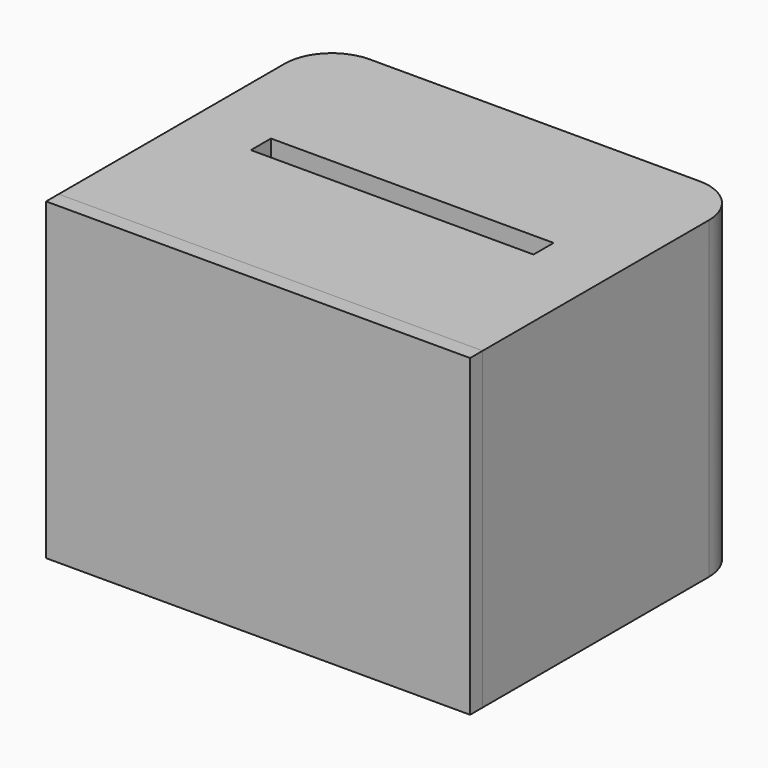
from build123d import *

# Parameters (mm, degrees)
F0_W     = 135
F0_H     = 100
F1_DEPTH = 105
F2_W     = 90
F2_H     = 8
F3_DEPTH = 45
F4_W     = 85
F4_H     = 50
F5_DEPTH = 60
F6_W     = 135
F6_H     = 100
F7_DEPTH = 5
F8_R     = 15
F9_R     = 15


with BuildPart() as f1:
    # F0 (on Front) → F1 (new body)
    with BuildSketch(Plane.XZ):
        Rectangle(F0_W, F0_H)
    extrude(amount=F1_DEPTH)

    # F2 (on face) → F3 (cut)
    with BuildSketch(Plane.XY.offset(50)):
        with Locations((0, -52.623879)):
            Rectangle(F2_W, F2_H)
    extrude(amount=-F3_DEPTH, mode=Mode.SUBTRACT)

    # F4 (on face) → F5 (cut)
    with BuildSketch(Plane.XZ.offset(105)):
        with Locations((-5.58562, 0)):
            Rectangle(F4_W, F4_H)
    extrude(amount=-F5_DEPTH, mode=Mode.SUBTRACT)

    # F8
    f8_edges = [f1.edges().sort_by_distance(p)[0] for p in [
        (-67.5, 0, 0),
    ]]
    fillet(f8_edges, radius=F8_R)

    # F9
    f9_edges = [f1.edges().sort_by_distance(p)[0] for p in [
        (67.5, 0, 0),
    ]]
    fillet(f9_edges, radius=F9_R)


with BuildPart() as f7:
    # F6 (on face) → F7 (new body)
    with BuildSketch(Plane.XZ.offset(105)):
        Rectangle(F6_W, F6_H)
    extrude(amount=F7_DEPTH)


solid = Compound([f1.part, f7.part])
